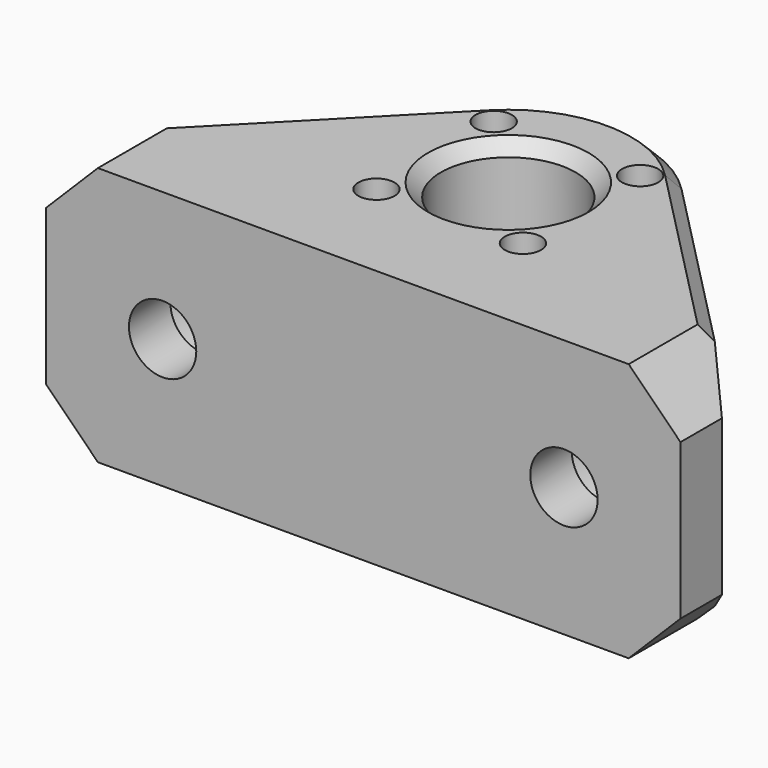
from build123d import *

# Parameters (mm, degrees)
PAD_DEPTH       = 20
SKETCH001_R     = 2.6
POCKET_DEPTH    = 24.501
SKETCH002_R     = 5
POCKET001_DEPTH = 20.501
SKETCH003_R     = 5.2
SKETCH003_R_2   = 1.4
POCKET002_DEPTH = 20.001
CHAMFER_SIZE    = 4
CHAMFER001_SIZE = 1
CHAMFER002_SIZE = 1


with BuildPart() as part:
    # Sketch → Pad (new body)
    with BuildSketch(Plane.XY):
        with BuildLine():
            Line((-24.5, 4), (-24.5, 0))
            Line((-24.5, 0), (24.5, 0))
            Line((24.5, 0), (24.5, 4))
            Line((7.499559, 21.348919), (24.5, 4))
            ThreePointArc((7.499559, 21.348919), (0, 24.5), (-7.499559, 21.348919))
            Line((-24.5, 4), (-7.499559, 21.348919))
        make_face()
    extrude(amount=PAD_DEPTH)

    # Sketch001 → Pocket (cut, through all)
    with BuildSketch(Plane.XZ):
        with Locations((-15.5, 10)):
            Circle(SKETCH001_R)
        with Locations((15.5, 10)):
            Circle(SKETCH001_R)
    extrude(amount=-POCKET_DEPTH, mode=Mode.SUBTRACT)

    # Sketch002 (on DatumPlane) → Pocket001 (cut, through all)
    with BuildSketch(Plane.XZ.offset(-4)):
        with Locations((-15.5, 10)):
            Circle(SKETCH002_R)
        with Locations((15.5, 10)):
            Circle(SKETCH002_R)
    extrude(amount=-POCKET001_DEPTH, mode=Mode.SUBTRACT)

    # Sketch003 → Pocket002 (cut, through all)
    with BuildSketch(Plane.XY):
        with Locations((0, 14)):
            Circle(SKETCH003_R)
        with Locations((-5.656854, 19.656854)):
            Circle(SKETCH003_R_2)
        with Locations((5.656854, 19.656854)):
            Circle(SKETCH003_R_2)
        with Locations((5.656854, 8.343146)):
            Circle(SKETCH003_R_2)
        with Locations((-5.656854, 8.343146)):
            Circle(SKETCH003_R_2)
    extrude(amount=POCKET002_DEPTH, mode=Mode.SUBTRACT)

    # Chamfer
    chamfer_edges = [part.edges().sort_by_distance(p)[0] for p in [
        (24.5, 2, 20),
        (24.5, 2, 0),
        (-24.5, 2, 20),
        (-24.5, 2, 0),
    ]]
    chamfer(chamfer_edges, length=CHAMFER_SIZE)

    # Chamfer001
    chamfer001_edges = [part.edges().sort_by_distance(p)[0] for p in [
        (-5.2, 14, 20),
        (-5.2, 14, 0),
    ]]
    chamfer(chamfer001_edges, length=CHAMFER001_SIZE)

    # Chamfer002
    chamfer002_edges = [part.edges().sort_by_distance(p)[0] for p in [
        (13.999779, 14.715456, 20),
        (0, 24.5, 20),
        (-13.999779, 14.715456, 20),
        (-13.999779, 14.715456, 0),
        (0, 24.5, 0),
        (13.999779, 14.715456, 0),
    ]]
    chamfer(chamfer002_edges, length=CHAMFER002_SIZE)


solid = part.part
